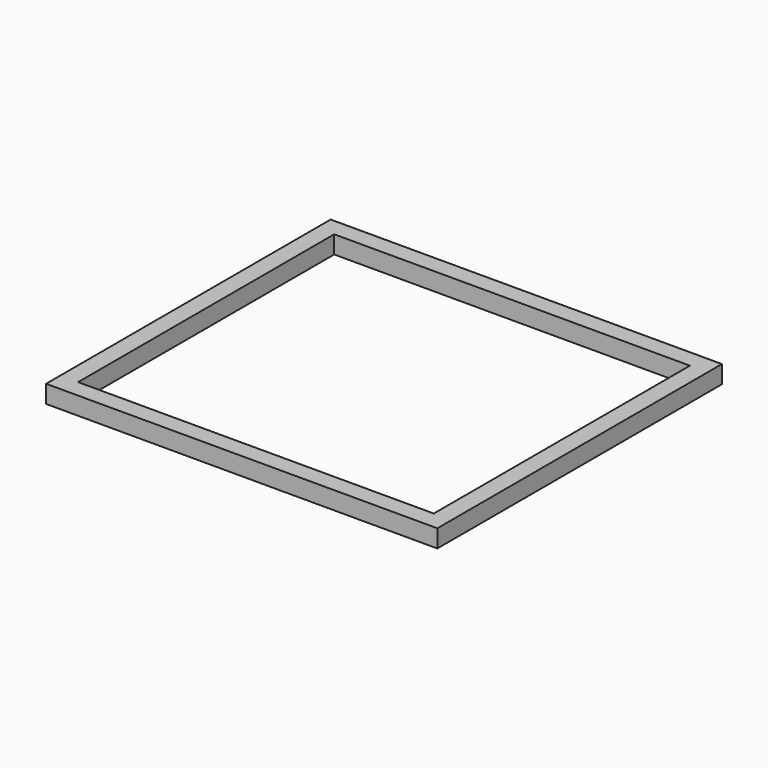
from build123d import *

# Parameters (mm, degrees)
F0_W     = 2400
F0_H     = 2200
F1_DEPTH = 100
F2_W     = 2400
F2_H     = 2200
F2_W_2   = 2200
F2_H_2   = 2000
F3_DEPTH = 100.001
F2_W_3   = 2000
F2_H_3   = 1800
F4_DEPTH = 100.001


with BuildPart() as f1:
    # F0 (on Top) → F1 (new body)
    with BuildSketch(Plane.XY):
        Rectangle(F0_W, F0_H)
    extrude(amount=F1_DEPTH)

    # F2 (on face) → F3 (cut, through all)
    with BuildSketch(Plane.XY.offset(100)):
        Rectangle(F2_W, F2_H)
        Rectangle(F2_W_2, F2_H_2, mode=Mode.SUBTRACT)
    extrude(amount=-F3_DEPTH, mode=Mode.SUBTRACT)

    # F2 (on face) → F4 (cut, through all)
    with BuildSketch(Plane.XY.offset(100)):
        Rectangle(F2_W_3, F2_H_3)
    extrude(amount=-F4_DEPTH, mode=Mode.SUBTRACT)


solid = f1.part
